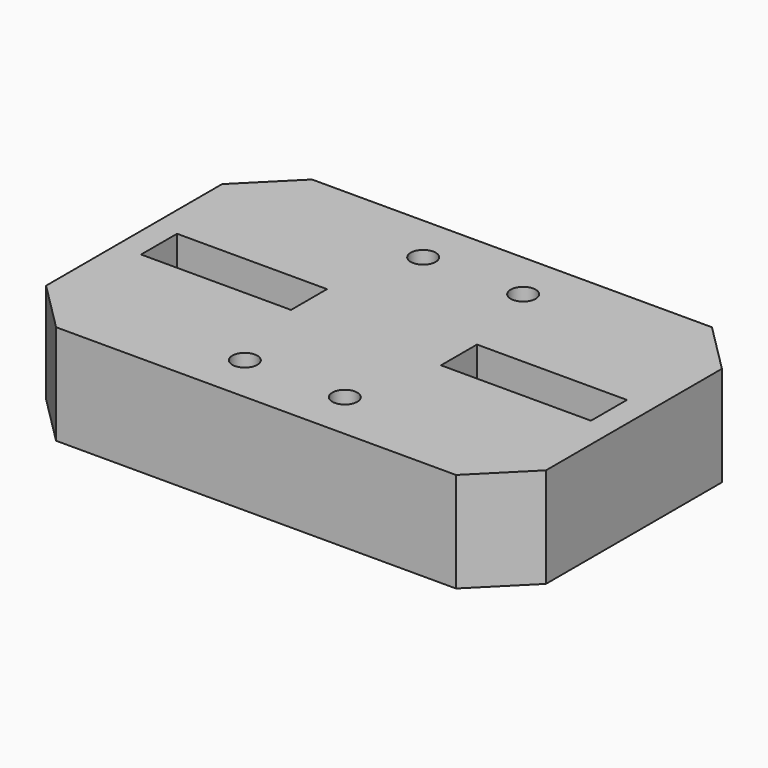
from build123d import *

# Parameters (mm, degrees)
F0_W     = 50
F0_H     = 32
F0_R     = 1.25
F0_W_2   = 15
F0_H_2   = 4.5
F1_DEPTH = 10
F2_SIZE  = 5


with BuildPart() as f1:
    # F0 (on Top) → F1 (new body)
    with BuildSketch(Plane.XY):
        with Locations((25, 16)):
            Rectangle(F0_W, F0_H)
        with Locations((20, 4.85)):
            Circle(F0_R, mode=Mode.SUBTRACT)
        with Locations((30, 4.85)):
            Circle(F0_R, mode=Mode.SUBTRACT)
        with Locations((10, 16)):
            Rectangle(F0_W_2, F0_H_2, mode=Mode.SUBTRACT)
        with Locations((20, 27.15)):
            Circle(F0_R, mode=Mode.SUBTRACT)
        with Locations((40, 16)):
            Rectangle(F0_W_2, F0_H_2, mode=Mode.SUBTRACT)
        with Locations((30, 27.15)):
            Circle(F0_R, mode=Mode.SUBTRACT)
    extrude(amount=F1_DEPTH)

    # F2
    f2_edges = [f1.edges().sort_by_distance(p)[0] for p in [
        (0, 0, 5),
        (50, 0, 5),
        (50, 32, 5),
        (0, 32, 5),
    ]]
    chamfer(f2_edges, length=F2_SIZE)


solid = f1.part
